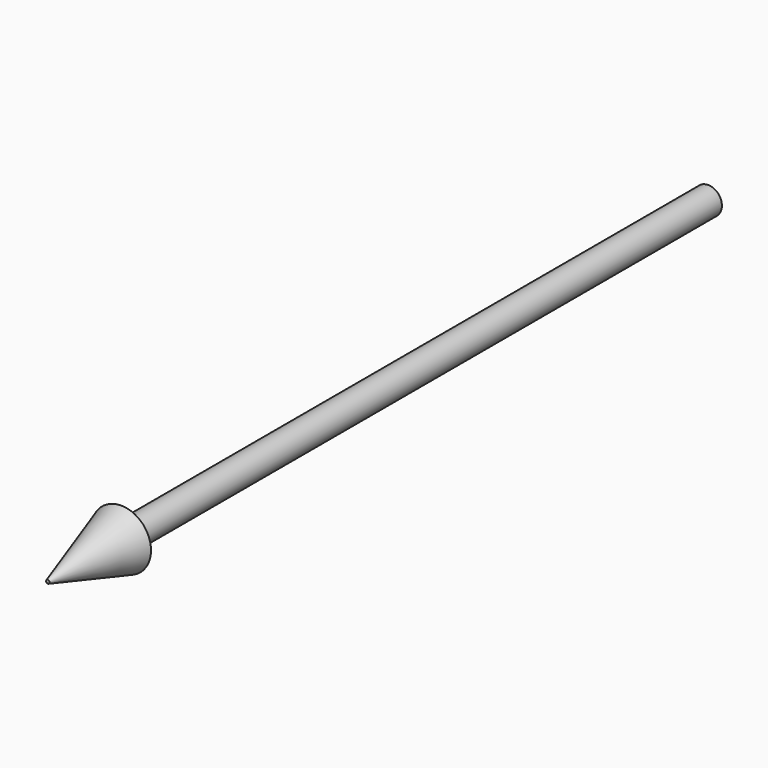
from build123d import *

# Parameters (mm, degrees)
F0_R     = 3.81
F1_DEPTH = 203.2
F2_R     = 8.255
F3_DEPTH = 25.4
F3_TAPER = 17


with BuildPart() as f1:
    # F0 (on Front) → F1 (new body)
    with BuildSketch(Plane.XZ):
        Circle(F0_R)
    extrude(amount=F1_DEPTH)

    # F2 (on face) → F3 (join)
    with BuildSketch(Plane.XZ.offset(203.2)):
        Circle(F2_R)
    extrude(amount=F3_DEPTH, taper=F3_TAPER)


solid = f1.part
